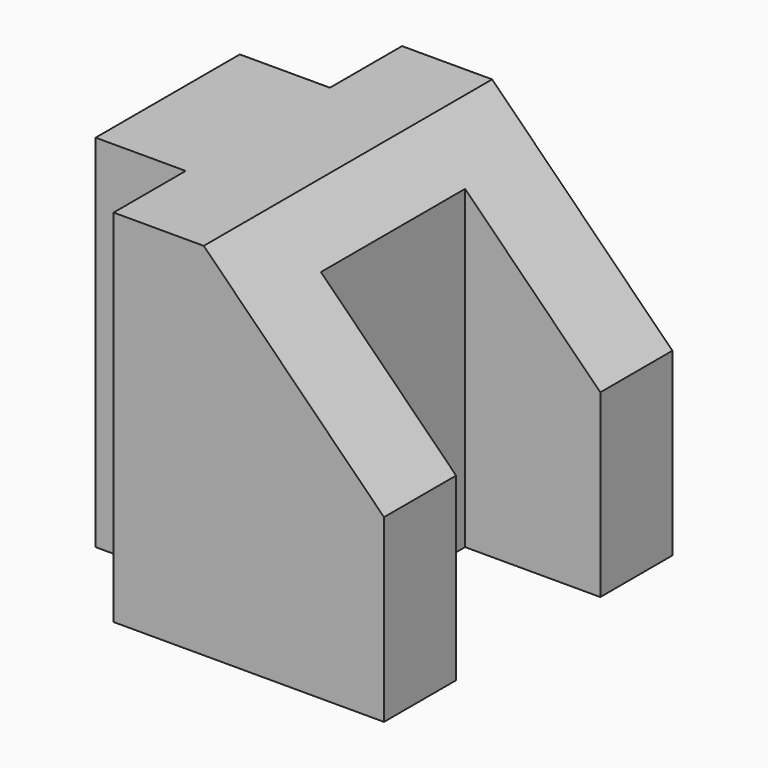
from build123d import *

# Parameters (mm, degrees)
F1_DEPTH = 50.8
F3_DEPTH = 50.8


with BuildPart() as f1:
    # F0 (on Top) → F1 (new body)
    with BuildSketch(Plane.XY):
        Polygon((38.1, 0), (0, 0), (0, -12.7), (-12.7, -12.7), (-12.7, -38.1), (0, -38.1), (0, -50.8), (38.1, -50.8), (38.1, -38.1), (19.05, -38.1), (19.05, -12.7), (38.1, -12.7), align=None)
    extrude(amount=F1_DEPTH)

    # F2 (on face) → F3 (cut, through all)
    with BuildSketch(Plane.XZ.offset(50.8)):
        Polygon((38.1, 25.4), (38.1, 50.8), (12.7, 50.8), align=None)
    extrude(amount=-F3_DEPTH, mode=Mode.SUBTRACT)


solid = f1.part
